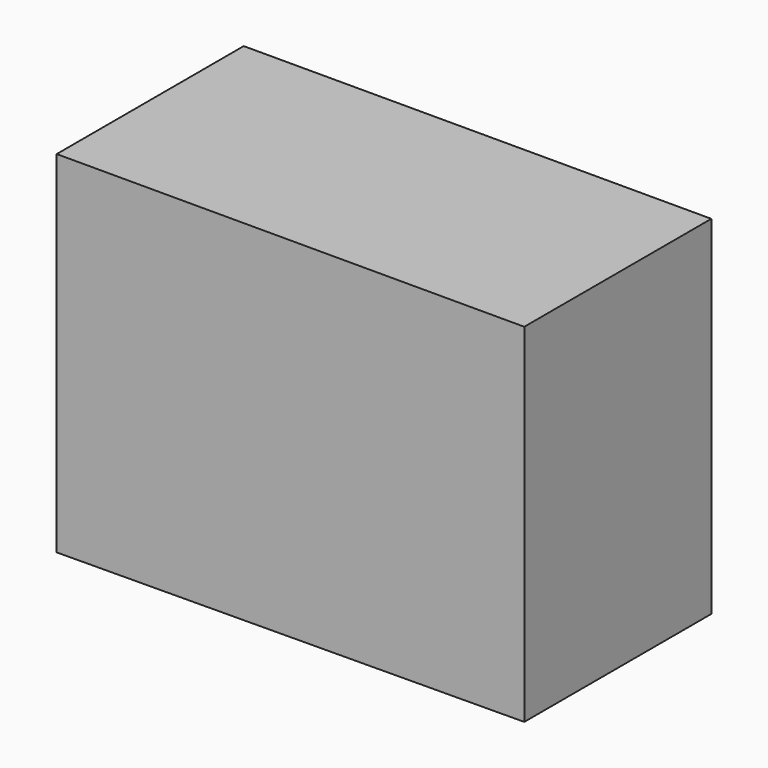
from build123d import *

# Parameters (mm, degrees)
F1_DEPTH = 25.4
F3_DEPTH = 31.75
F4_DEPTH = 25.4


with BuildPart() as f1:
    # F0 (on Front) → F1 (new body)
    with BuildSketch(Plane.XZ):
        Polygon((16.637316, 47.108235), (16.637316, 9.008235), (67.436395, 9.314255), (67.436395, 47.108235), align=None)
    extrude(amount=F1_DEPTH)

    # F2 (on face) → F3 (cut)
    with BuildSketch(Plane.XZ.offset(25.4)):
        Polygon((67.436395, 47.108235), (45.571412, 47.108235), (67.436395, 24.086831), align=None)
    extrude(amount=-F3_DEPTH, mode=Mode.SUBTRACT)

    # F0 (on Front) → F4 (join)
    with BuildSketch(Plane.XZ):
        Polygon((16.637316, 47.108235), (16.637316, 9.008235), (67.436395, 9.314255), (67.436395, 47.108235), align=None)
    extrude(amount=F4_DEPTH)


solid = f1.part
